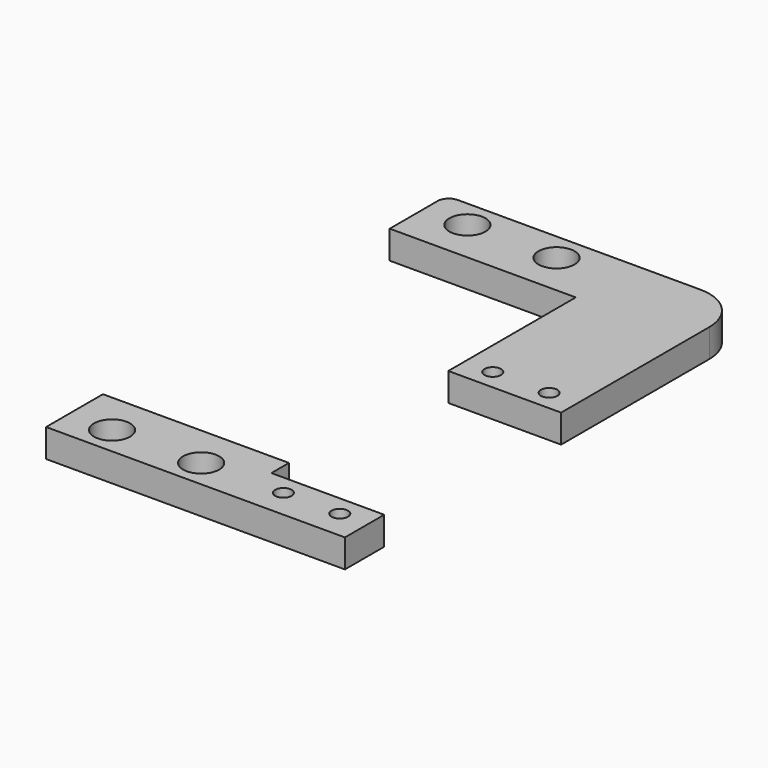
from build123d import *

# Parameters (mm, degrees)
F0_R     = 2.032
F0_R_2   = 0.9271
F0_W     = 12.7
F0_H     = 5.52925
F1_DEPTH = 3.175


with BuildPart() as f1:
    # F0 (on Top) → F1 (new body)
    with BuildSketch(Plane.XY):
        with BuildLine():
            Line((-9.902495, -4.826), (11.039907, -4.826))
            Line((11.039907, -4.826), (11.039907, 3.175))
            Line((11.039907, 3.175), (-8.632495, 3.175))
            ThreePointArc((-8.632495, 3.175), (-9.53052, 2.803026), (-9.902495, 1.905))
            Line((-9.902495, 1.905), (-9.902495, -4.826))
        make_face()
        with Locations((-5.0165, 0)):
            Circle(F0_R, mode=Mode.SUBTRACT)
        with Locations((5.0165, 0)):
            Circle(F0_R, mode=Mode.SUBTRACT)
        with BuildLine():
            Line((11.039907, 3.175), (11.039907, -4.826))
            Line((11.039907, -4.826), (11.039907, -22.76))
            Line((11.039907, -22.76), (23.739907, -22.76))
            Line((23.739907, -22.76), (23.739907, -1.905))
            ThreePointArc((23.739907, -1.905), (22.252009, 1.687102), (18.659907, 3.175))
            Line((18.659907, 3.175), (11.039907, 3.175))
        make_face()
        with Locations((14.214907, -20.474)):
            Circle(F0_R_2, mode=Mode.SUBTRACT)
        with Locations((20.564907, -20.474)):
            Circle(F0_R_2, mode=Mode.SUBTRACT)
        Polygon((11.039907, -45.18025), (-9.902495, -45.18025), (-9.902495, -53.18125), (11.039907, -53.18125), (11.039907, -47.652), align=None)
        with Locations((-5.0165, -50.00625)):
            Circle(F0_R, mode=Mode.SUBTRACT)
        with Locations((5.0165, -50.00625)):
            Circle(F0_R, mode=Mode.SUBTRACT)
        with Locations((17.389907, -50.416625)):
            Rectangle(F0_W, F0_H)
        with Locations((14.214907, -49.938)):
            Circle(F0_R_2, mode=Mode.SUBTRACT)
        with Locations((20.564907, -49.938)):
            Circle(F0_R_2, mode=Mode.SUBTRACT)
    extrude(amount=F1_DEPTH)


solid = f1.part
